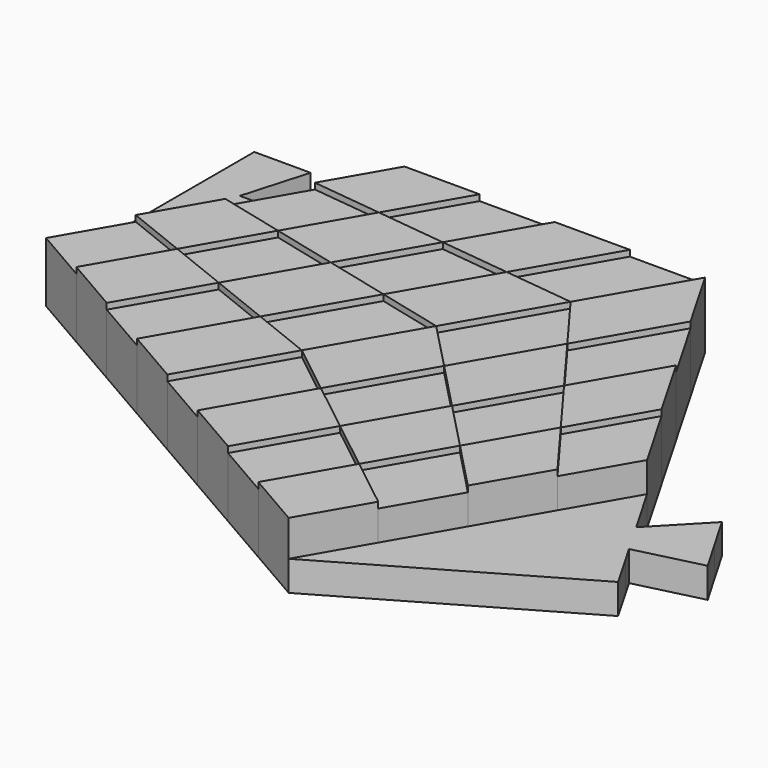
from build123d import *

# Parameters (mm, degrees)
F1_DEPTH = 3.175
F2_DEPTH = 6.35
F3_DEPTH = 6.985


with BuildPart() as f1:
    # F0 (on Top) → F1 (new body)
    with BuildSketch(Plane.XY):
        Polygon((-171.8328454236, 13.3072814261), (-171.8328454236, -14.2179693016), (-167.8599176943, -7.3366566197), (-167.8599176943, 6.4259687442), (-167.8599176943, 13.3072814261), align=None)
        Polygon((-167.8599176943, 13.3072814261), (-167.8599176943, 6.4259687442), (-165.8734538296, 13.3072814261), align=None)
        Polygon((-167.8599176943, 6.4259687442), (-167.8599176943, -7.3366566197), (-163.886989965, -0.4553439378), (-163.886989965, 6.4259687442), align=None)
        Polygon((-163.886989965, 6.4259687442), (-163.886989965, -0.4553439378), (-159.9140622357, 6.4259687442), align=None)
    extrude(amount=F1_DEPTH)


with BuildPart() as f1b:
    # F0 (on Top) → F1, piece 2 (new body)
    with BuildSketch(Plane.XY):
        Polygon((-161.9005261004, 13.3072814261), (-159.9140622357, 6.4259687442), (-159.9140622357, 13.3072814261), align=None)
        Polygon((-159.9140622357, 13.3072814261), (-159.9140622357, 6.4259687442), (-155.9411345064, 13.3072814261), align=None)
    extrude(amount=F1_DEPTH)


with BuildPart() as f1c:
    # F0 (on Top) → F1, piece 3 (new body)
    with BuildSketch(Plane.XY):
        Polygon((-120.1847849428, -34.8619073474), (-124.1577126721, -41.7432200293), (-100.3201462964, -27.9805946655), (-102.3406092154, -24.4810502348), align=None)
        Polygon((-116.2118572135, -27.9805946655), (-120.1847849428, -34.8619073474), (-102.3406092154, -24.4810502348), (-103.2998420933, -22.819610154), (-104.2757305694, -21.1678594748), align=None)
        Polygon((-112.2389294842, -21.0992819835), (-116.2118572135, -27.9805946655), (-104.2757305694, -21.1678594748), (-105.2859778962, -19.4180597767), (-106.2962252229, -17.6682600785), align=None)
        Polygon((-108.2660017549, -14.2179693016), (-112.2389294842, -21.0992819835), (-106.2962252229, -17.6682600785), (-105.2859778962, -19.4180597767), (-105.2720717649, -19.4036081586), align=None)
        Polygon((-105.2720717649, -19.4036081586), (-104.2590432368, -21.1582250388), (-98.314531305, -17.7261594748), (-100.3194594422, -14.2567229066), align=None)
        Polygon((-104.2590432368, -21.1582250388), (-103.2998420933, -22.819610154), (-96.3467340194, -21.0991474396), (-98.314531305, -17.7261594748), align=None)
        Polygon((-105.2859778962, -19.4180597767), (-104.2757305694, -21.1678594748), (-104.2590432368, -21.1582250388), (-105.2720717649, -19.4036081586), align=None)
        Polygon((-104.2590432368, -21.1582250388), (-104.2757305694, -21.1678594748), (-103.2998420933, -22.819610154), align=None)
    extrude(amount=F1_DEPTH)


with BuildPart() as f2:
    # F0 (on Top) → F2 (new body)
    with BuildSketch(Plane.XY):
        Polygon((-171.8328454236, -14.2179693016), (-165.8734538296, -17.6586256426), (-161.4039101342, -9.9171488754), (-167.8599176943, -7.3366566197), align=None)
    extrude(amount=F2_DEPTH)


with BuildPart() as f2b:
    # F0 (on Top) → F2, piece 2 (new body)
    with BuildSketch(Plane.XY):
        Polygon((-161.4039101342, -9.9171488754), (-154.9479025741, -12.4976411311), (-149.9817429125, -3.8960002787), (-156.9343664387, -2.1756721083), align=None)
    extrude(amount=F2_DEPTH)


with BuildPart() as f2c:
    # F0 (on Top) → F2, piece 3 (new body)
    with BuildSketch(Plane.XY):
        Polygon((-159.9140622357, -21.0992819835), (-153.9546706418, -24.5399383245), (-148.491895014, -15.0781333869), (-154.9479025741, -12.4976411311), align=None)
    extrude(amount=F2_DEPTH)


with BuildPart() as f2d:
    # F0 (on Top) → F2, piece 4 (new body)
    with BuildSketch(Plane.XY):
        Polygon((-148.491895014, -15.0781333869), (-142.0358874539, -17.6586256426), (-136.07649586, -7.3366566197), (-143.0291193862, -5.6163284492), align=None)
    extrude(amount=F2_DEPTH)


with BuildPart() as f2e:
    # F0 (on Top) → F2, piece 5 (new body)
    with BuildSketch(Plane.XY):
        Polygon((-147.9952790478, -27.9805946655), (-142.0358874539, -31.4212510064), (-136.5731118261, -21.9594460688), (-142.0358874539, -17.6586256426), align=None)
    extrude(amount=F2_DEPTH)


with BuildPart() as f2f:
    # F0 (on Top) → F2, piece 6 (new body)
    with BuildSketch(Plane.XY):
        Polygon((-136.5731118261, -21.9594460688), (-131.1103361984, -26.260266495), (-126.1441765368, -17.6586256426), (-131.1103361984, -12.4976411311), align=None)
    extrude(amount=F2_DEPTH)


with BuildPart() as f2g:
    # F0 (on Top) → F2, piece 7 (new body)
    with BuildSketch(Plane.XY):
        Polygon((-136.07649586, -34.8619073474), (-130.117104266, -38.3025636884), (-125.6475605706, -30.5610869212), (-131.1103361984, -26.260266495), align=None)
    extrude(amount=F2_DEPTH)


with BuildPart() as f2h:
    # F0 (on Top) → F2, piece 8 (new body)
    with BuildSketch(Plane.XY):
        Polygon((-125.6475605706, -30.5610869212), (-120.1847849428, -34.8619073474), (-116.2118572135, -27.9805946655), (-121.1780168751, -22.819610154), align=None)
    extrude(amount=F2_DEPTH)


with BuildPart() as f2i:
    # F0 (on Top) → F2, piece 9 (new body)
    with BuildSketch(Plane.XY):
        Polygon((-126.1441765368, -17.6586256426), (-121.1780168751, -22.819610154), (-116.7084731797, -15.0781333869), (-121.1780168751, -9.0569847902), align=None)
    extrude(amount=F2_DEPTH)


with BuildPart() as f2j:
    # F0 (on Top) → F2, piece 10 (new body)
    with BuildSketch(Plane.XY):
        Polygon((-163.886989965, -0.4553439378), (-156.9343664387, -2.1756721083), (-152.4648227433, 5.5658046589), (-159.9140622357, 6.4259687442), align=None)
    extrude(amount=F2_DEPTH)


with BuildPart() as f2k:
    # F0 (on Top) → F2, piece 11 (new body)
    with BuildSketch(Plane.XY):
        Polygon((-149.9817429125, -3.8960002787), (-143.0291193862, -5.6163284492), (-137.5663437585, 3.8454764884), (-145.0155832509, 4.7056405737), align=None)
    extrude(amount=F2_DEPTH)


with BuildPart() as f2l:
    # F0 (on Top) → F2, piece 12 (new body)
    with BuildSketch(Plane.XY):
        Polygon((-136.07649586, -7.3366566197), (-131.1103361984, -12.4976411311), (-125.6475605706, -3.0358361935), (-130.117104266, 2.9853124032), align=None)
    extrude(amount=F2_DEPTH)


with BuildPart() as f2m:
    # F0 (on Top) → F2, piece 13 (new body)
    with BuildSketch(Plane.XY):
        Polygon((-152.4648227433, 5.5658046589), (-145.0155832509, 4.7056405737), (-140.0494235893, 13.3072814261), (-147.9952790478, 13.3072814261), align=None)
    extrude(amount=F2_DEPTH)


with BuildPart() as f2n:
    # F0 (on Top) → F2, piece 14 (new body)
    with BuildSketch(Plane.XY):
        Polygon((-137.5663437585, 3.8454764884), (-130.117104266, 2.9853124032), (-124.1577126721, 13.3072814261), (-132.1035681307, 13.3072814261), align=None)
    extrude(amount=F2_DEPTH)


with BuildPart() as f2o:
    # F0 (on Top) → F2, piece 15 (new body)
    with BuildSketch(Plane.XY):
        Polygon((-125.6475605706, -3.0358361935), (-121.1780168751, -9.0569847902), (-116.2118572135, -0.4553439378), (-120.1847849428, 6.4259687442), align=None)
    extrude(amount=F2_DEPTH)


with BuildPart() as f2p:
    # F0 (on Top) → F2, piece 16 (new body)
    with BuildSketch(Plane.XY):
        Polygon((-116.7084731797, -15.0781333869), (-112.2389294842, -21.0992819835), (-108.2660017549, -14.2179693016), (-112.2389294842, -7.3366566197), align=None)
    extrude(amount=F2_DEPTH)


with BuildPart() as f3:
    # F0 (on Top) → F3 (new body)
    with BuildSketch(Plane.XY):
        Polygon((-159.9140622357, 6.4259687442), (-152.4648227433, 5.5658046589), (-147.9952790478, 13.3072814261), (-155.9411345064, 13.3072814261), align=None)
    extrude(amount=F3_DEPTH)


with BuildPart() as f3b:
    # F0 (on Top) → F3, piece 2 (new body)
    with BuildSketch(Plane.XY):
        Polygon((-156.9343664387, -2.1756721083), (-149.9817429125, -3.8960002787), (-145.0155832509, 4.7056405737), (-152.4648227433, 5.5658046589), align=None)
    extrude(amount=F3_DEPTH)


with BuildPart() as f3c:
    # F0 (on Top) → F3, piece 3 (new body)
    with BuildSketch(Plane.XY):
        Polygon((-167.8599176943, -7.3366566197), (-161.4039101342, -9.9171488754), (-156.9343664387, -2.1756721083), (-163.886989965, -0.4553439378), align=None)
    extrude(amount=F3_DEPTH)


with BuildPart() as f3d:
    # F0 (on Top) → F3, piece 4 (new body)
    with BuildSketch(Plane.XY):
        Polygon((-165.8734538296, -17.6586256426), (-159.9140622357, -21.0992819835), (-154.9479025741, -12.4976411311), (-161.4039101342, -9.9171488754), align=None)
    extrude(amount=F3_DEPTH)


with BuildPart() as f3e:
    # F0 (on Top) → F3, piece 5 (new body)
    with BuildSketch(Plane.XY):
        Polygon((-154.9479025741, -12.4976411311), (-148.491895014, -15.0781333869), (-143.0291193862, -5.6163284492), (-149.9817429125, -3.8960002787), align=None)
    extrude(amount=F3_DEPTH)


with BuildPart() as f3f:
    # F0 (on Top) → F3, piece 6 (new body)
    with BuildSketch(Plane.XY):
        Polygon((-153.9546706418, -24.5399383245), (-147.9952790478, -27.9805946655), (-142.0358874539, -17.6586256426), (-148.491895014, -15.0781333869), align=None)
    extrude(amount=F3_DEPTH)


with BuildPart() as f3g:
    # F0 (on Top) → F3, piece 7 (new body)
    with BuildSketch(Plane.XY):
        Polygon((-142.0358874539, -17.6586256426), (-136.5731118261, -21.9594460688), (-131.1103361984, -12.4976411311), (-136.07649586, -7.3366566197), align=None)
    extrude(amount=F3_DEPTH)


with BuildPart() as f3h:
    # F0 (on Top) → F3, piece 8 (new body)
    with BuildSketch(Plane.XY):
        Polygon((-143.0291193862, -5.6163284492), (-136.07649586, -7.3366566197), (-130.117104266, 2.9853124032), (-137.5663437585, 3.8454764884), align=None)
    extrude(amount=F3_DEPTH)


with BuildPart() as f3i:
    # F0 (on Top) → F3, piece 9 (new body)
    with BuildSketch(Plane.XY):
        Polygon((-145.0155832509, 4.7056405737), (-137.5663437585, 3.8454764884), (-132.1035681307, 13.3072814261), (-140.0494235893, 13.3072814261), align=None)
    extrude(amount=F3_DEPTH)


with BuildPart() as f3j:
    # F0 (on Top) → F3, piece 10 (new body)
    with BuildSketch(Plane.XY):
        Polygon((-130.117104266, 2.9853124032), (-125.6475605706, -3.0358361935), (-120.1847849428, 6.4259687442), (-124.1577126721, 13.3072814261), align=None)
    extrude(amount=F3_DEPTH)


with BuildPart() as f3k:
    # F0 (on Top) → F3, piece 11 (new body)
    with BuildSketch(Plane.XY):
        Polygon((-131.1103361984, -12.4976411311), (-126.1441765368, -17.6586256426), (-121.1780168751, -9.0569847902), (-125.6475605706, -3.0358361935), align=None)
    extrude(amount=F3_DEPTH)


with BuildPart() as f3l:
    # F0 (on Top) → F3, piece 12 (new body)
    with BuildSketch(Plane.XY):
        Polygon((-142.0358874539, -31.4212510064), (-136.07649586, -34.8619073474), (-131.1103361984, -26.260266495), (-136.5731118261, -21.9594460688), align=None)
    extrude(amount=F3_DEPTH)


with BuildPart() as f3m:
    # F0 (on Top) → F3, piece 13 (new body)
    with BuildSketch(Plane.XY):
        Polygon((-131.1103361984, -26.260266495), (-125.6475605706, -30.5610869212), (-121.1780168751, -22.819610154), (-126.1441765368, -17.6586256426), align=None)
    extrude(amount=F3_DEPTH)


with BuildPart() as f3n:
    # F0 (on Top) → F3, piece 14 (new body)
    with BuildSketch(Plane.XY):
        Polygon((-121.1780168751, -9.0569847902), (-116.7084731797, -15.0781333869), (-112.2389294842, -7.3366566197), (-116.2118572135, -0.4553439378), align=None)
    extrude(amount=F3_DEPTH)


with BuildPart() as f3o:
    # F0 (on Top) → F3, piece 15 (new body)
    with BuildSketch(Plane.XY):
        Polygon((-121.1780168751, -22.819610154), (-116.2118572135, -27.9805946655), (-112.2389294842, -21.0992819835), (-116.7084731797, -15.0781333869), align=None)
    extrude(amount=F3_DEPTH)


with BuildPart() as f3p:
    # F0 (on Top) → F3, piece 16 (new body)
    with BuildSketch(Plane.XY):
        Polygon((-130.117104266, -38.3025636884), (-124.1577126721, -41.7432200293), (-120.1847849428, -34.8619073474), (-125.6475605706, -30.5610869212), align=None)
    extrude(amount=F3_DEPTH)


solid = Compound([f1.part, f1b.part, f1c.part, f2.part, f2b.part, f2c.part, f2d.part, f2e.part, f2f.part, f2g.part, f2h.part, f2i.part, f2j.part, f2k.part, f2l.part, f2m.part, f2n.part, f2o.part, f2p.part, f3.part, f3b.part, f3c.part, f3d.part, f3e.part, f3f.part, f3g.part, f3h.part, f3i.part, f3j.part, f3k.part, f3l.part, f3m.part, f3n.part, f3o.part, f3p.part])
